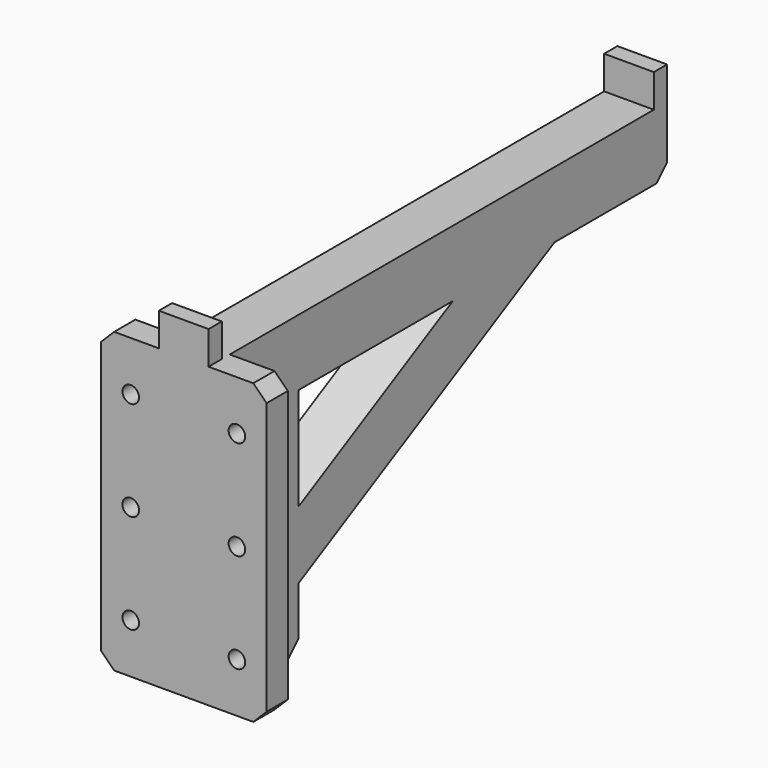
from build123d import *

# Parameters (mm, degrees)
CYLINDER005_R          = 2.5
CYLINDER005_DEPTH      = 20
CYLINDER005_ROLL_ANGLE = 90
CYLINDER004_R          = 2.5
CYLINDER004_DEPTH      = 20
CYLINDER004_ROLL_ANGLE = 90
CYLINDER003_R          = 2.5
CYLINDER003_DEPTH      = 20
CYLINDER003_ROLL_ANGLE = 90
CYLINDER002_R          = 2.5
CYLINDER002_DEPTH      = 20
CYLINDER002_ROLL_ANGLE = 90
CYLINDER001_R          = 2.5
CYLINDER001_DEPTH      = 20
CYLINDER001_ROLL_ANGLE = 90
CYLINDER_R             = 2.5
CYLINDER_DEPTH         = 20
CYLINDER_ROLL_ANGLE    = 90
BOX002_W               = 15
BOX002_H               = 163
BOX002_DEPTH           = 100
BOX003_W               = 15
BOX003_H               = 125
BOX003_DEPTH           = 18
BOX003_ROLL_ANGLE      = 28
BOX001_W               = 15
BOX001_H               = 163
BOX001_DEPTH           = 100
BOX_W                  = 15
BOX_H                  = 173
BOX_DEPTH              = 100
CHAMFER001_SIZE        = 4
BOX004_W               = 50
BOX004_H               = 8
BOX004_DEPTH           = 90
CHAMFER_SIZE           = 4
CHAMFER002_SIZE        = 4
CHAMFER003_SIZE        = 2


with BuildPart() as cylinder005:
    # Cylinder005 → Cylinder005 (new body)
    with BuildSketch(Plane.XY):
        Circle(CYLINDER005_R)
    extrude(amount=CYLINDER005_DEPTH)


with BuildPart() as cylinder005_1:
    # Cylinder005 roll: moved
    add(cylinder005.part.rotate(Axis((0, 0, 0), (1, 0, 0)), CYLINDER005_ROLL_ANGLE))


with BuildPart() as cylinder005_2:
    # Cylinder005 placement: moved
    add(cylinder005_1.part.moved(Location((-8.5, 14, 75))))


with BuildPart() as cylinder004:
    # Cylinder004 → Cylinder004 (new body)
    with BuildSketch(Plane.XY):
        Circle(CYLINDER004_R)
    extrude(amount=CYLINDER004_DEPTH)


with BuildPart() as cylinder004_1:
    # Cylinder004 roll: moved
    add(cylinder004.part.rotate(Axis((0, 0, 0), (1, 0, 0)), CYLINDER004_ROLL_ANGLE))


with BuildPart() as cylinder004_2:
    # Cylinder004 placement: moved
    add(cylinder004_1.part.moved(Location((23.55, 14, 75))))


with BuildPart() as cylinder003:
    # Cylinder003 → Cylinder003 (new body)
    with BuildSketch(Plane.XY):
        Circle(CYLINDER003_R)
    extrude(amount=CYLINDER003_DEPTH)


with BuildPart() as cylinder003_1:
    # Cylinder003 roll: moved
    add(cylinder003.part.rotate(Axis((0, 0, 0), (1, 0, 0)), CYLINDER003_ROLL_ANGLE))


with BuildPart() as cylinder003_2:
    # Cylinder003 placement: moved
    add(cylinder003_1.part.moved(Location((-8.5, 14, 45))))


with BuildPart() as cylinder002:
    # Cylinder002 → Cylinder002 (new body)
    with BuildSketch(Plane.XY):
        Circle(CYLINDER002_R)
    extrude(amount=CYLINDER002_DEPTH)


with BuildPart() as cylinder002_1:
    # Cylinder002 roll: moved
    add(cylinder002.part.rotate(Axis((0, 0, 0), (1, 0, 0)), CYLINDER002_ROLL_ANGLE))


with BuildPart() as cylinder002_2:
    # Cylinder002 placement: moved
    add(cylinder002_1.part.moved(Location((23.55, 14, 45))))


with BuildPart() as cylinder001:
    # Cylinder001 → Cylinder001 (new body)
    with BuildSketch(Plane.XY):
        Circle(CYLINDER001_R)
    extrude(amount=CYLINDER001_DEPTH)


with BuildPart() as cylinder001_1:
    # Cylinder001 roll: moved
    add(cylinder001.part.rotate(Axis((0, 0, 0), (1, 0, 0)), CYLINDER001_ROLL_ANGLE))


with BuildPart() as cylinder001_2:
    # Cylinder001 placement: moved
    add(cylinder001_1.part.moved(Location((-8.5, 14, 15))))


with BuildPart() as cylinder:
    # Cylinder → Cylinder (new body)
    with BuildSketch(Plane.XY):
        Circle(CYLINDER_R)
    extrude(amount=CYLINDER_DEPTH)


with BuildPart() as cylinder_1:
    # Cylinder roll: moved
    add(cylinder.part.rotate(Axis((0, 0, 0), (1, 0, 0)), CYLINDER_ROLL_ANGLE))


with BuildPart() as cylinder_2:
    # Cylinder placement: moved
    add(cylinder_1.part.moved(Location((23.55, 14, 15))))


with BuildPart() as cube002:
    # Box002 → Box002 (new body)
    with BuildSketch(Plane(origin=(0, 5, 90), x_dir=(1, 0, 0), z_dir=(0, 0, 1))):
        with Locations((7.5, 81.5)):
            Rectangle(BOX002_W, BOX002_H)
    extrude(amount=BOX002_DEPTH)


with BuildPart() as cube003:
    # Box003 → Box003 (new body)
    with BuildSketch(Plane.XY):
        with Locations((7.5, 62.5)):
            Rectangle(BOX003_W, BOX003_H)
    extrude(amount=BOX003_DEPTH)


with BuildPart() as cube003_1:
    # Box003 roll: moved
    add(cube003.part.rotate(Axis((0, 0, 0), (1, 0, 0)), BOX003_ROLL_ANGLE))


with BuildPart() as cube003_2:
    # Box003 placement: moved
    add(cube003_1.part.moved(Location((0, 20, 11.25))))


with BuildPart() as cube001:
    # Box001 → Box001 (new body)
    with BuildSketch(Plane(origin=(0, 34, -30), x_dir=(1, 0, 0), z_dir=(0, 0, 1))):
        with Locations((7.5, 81.5)):
            Rectangle(BOX001_W, BOX001_H)
    extrude(amount=BOX001_DEPTH)


with BuildPart() as chamfer001:
    # Box → Box (new body)
    with BuildSketch(Plane.XY):
        with Locations((7.5, 86.5)):
            Rectangle(BOX_W, BOX_H)
    extrude(amount=BOX_DEPTH)

    # Cut: cut Cube001
    add(cube001.part, mode=Mode.SUBTRACT)

    # Fusion: union Cube003
    add(cube003_2.part)

    # Chamfer001
    chamfer001_edges = [chamfer001.edges().sort_by_distance(p)[0] for p in [
        (7.5, 34, 0),
    ]]
    chamfer(chamfer001_edges, length=CHAMFER001_SIZE)


with BuildPart() as final:
    # Box004 → Box004 (new body)
    with BuildSketch(Plane(origin=(-17.5, 0, 0), x_dir=(1, 0, 0), z_dir=(0, 0, 1))):
        with Locations((25, 4)):
            Rectangle(BOX004_W, BOX004_H)
    extrude(amount=BOX004_DEPTH)

    # Chamfer
    chamfer_edges = [final.edges().sort_by_distance(p)[0] for p in [
        (-17.5, 4, 90),
        (-17.5, 4, 0),
        (32.5, 4, 90),
        (32.5, 4, 0),
    ]]
    chamfer(chamfer_edges, length=CHAMFER_SIZE)

    # Fusion001: union Chamfer001
    add(chamfer001.part)

    # Cut001: cut Cube002
    add(cube002.part, mode=Mode.SUBTRACT)

    # Chamfer002
    chamfer002_edges = [final.edges().sort_by_distance(p)[0] for p in [
        (7.5, 173, 70),
    ]]
    chamfer(chamfer002_edges, length=CHAMFER002_SIZE)

    # Cut002: cut Cylinder
    add(cylinder_2.part, mode=Mode.SUBTRACT)

    # Cut003: cut Cylinder001
    add(cylinder001_2.part, mode=Mode.SUBTRACT)

    # Cut004: cut Cylinder002
    add(cylinder002_2.part, mode=Mode.SUBTRACT)

    # Cut005: cut Cylinder003
    add(cylinder003_2.part, mode=Mode.SUBTRACT)

    # Cut006: cut Cylinder004
    add(cylinder004_2.part, mode=Mode.SUBTRACT)

    # Cut007: cut Cylinder005
    add(cylinder005_2.part, mode=Mode.SUBTRACT)

    # Chamfer003
    chamfer003_edges = [final.edges().sort_by_distance(p)[0] for p in [
        (-11, 8, 75),
        (-11, 8, 45),
        (-11, 8, 15),
        (21.05, 8, 75),
        (21.05, 8, 45),
        (21.05, 8, 15),
    ]]
    chamfer(chamfer003_edges, length=CHAMFER003_SIZE)


solid = final.part
